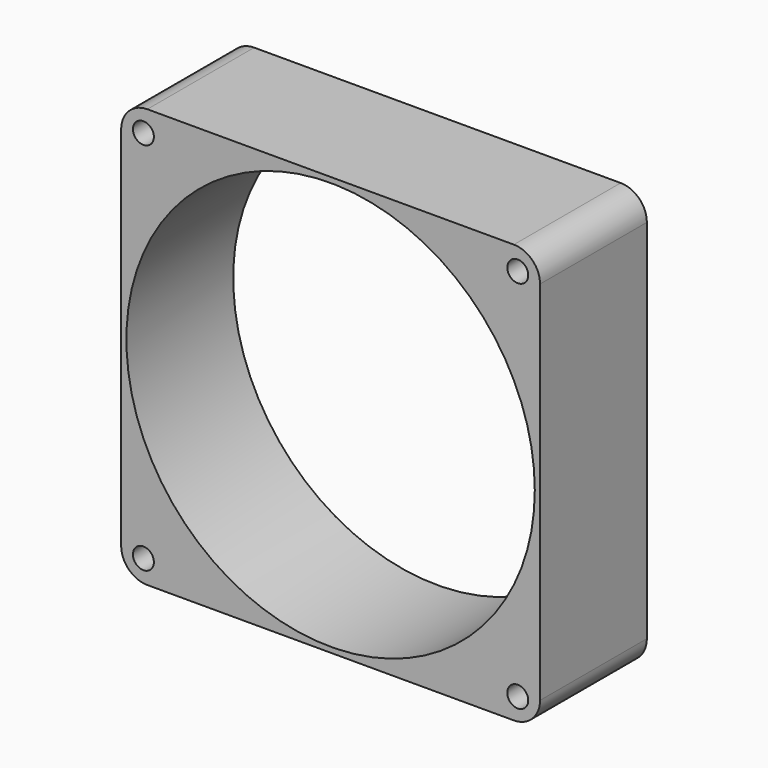
from build123d import *

# Parameters (mm, degrees)
F0_W     = 80
F0_H     = 80
F0_R     = 2
F1_DEPTH = 25.5
F2_R     = 5
F3_R     = 39
F4_DEPTH = 25.5


with BuildPart() as f1:
    # F0 (on Front) → F1 (new body)
    with BuildSketch(Plane.XZ):
        with Locations((78.061389, -1.505866)):
            Rectangle(F0_W, F0_H)
        with Locations((42.311389, -37.255866)):
            Circle(F0_R, mode=Mode.SUBTRACT)
        with Locations((113.811389, -37.255866)):
            Circle(F0_R, mode=Mode.SUBTRACT)
        with Locations((42.311389, 34.244134)):
            Circle(F0_R, mode=Mode.SUBTRACT)
        with Locations((113.811389, 34.244134)):
            Circle(F0_R, mode=Mode.SUBTRACT)
    extrude(amount=F1_DEPTH)

    # F2
    f2_edges = [f1.edges().sort_by_distance(p)[0] for p in [
        (38.061389, -12.75, 38.494134),
        (38.061389, -12.75, -41.505866),
        (118.061389, -12.75, -41.505866),
        (118.061389, -12.75, 38.494134),
    ]]
    fillet(f2_edges, radius=F2_R)

    # F3 (on face) → F4 (cut, through all)
    with BuildSketch(Plane.XZ.offset(25.5)):
        with Locations((78.061389, -1.505866)):
            Circle(F3_R)
    extrude(amount=-F4_DEPTH, mode=Mode.SUBTRACT)


solid = f1.part
